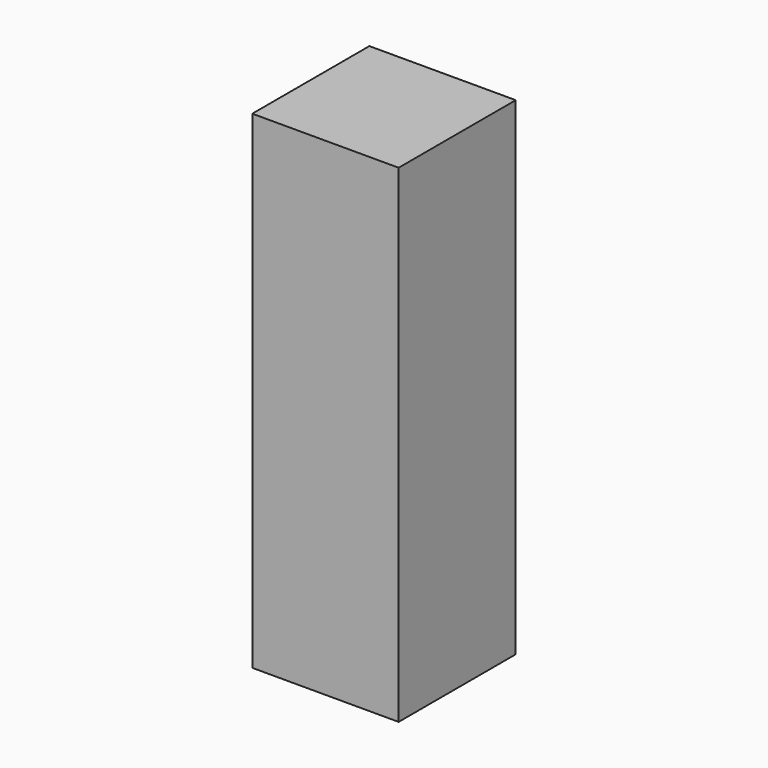
from build123d import *

# Parameters (mm, degrees)
BOX_W        = 100
BOX_H        = 200
BOX_DEPTH    = 300
BOX001_W     = 300
BOX001_H     = 300
BOX001_DEPTH = 1000


with BuildPart() as cube:
    # Box → Box (new body)
    with BuildSketch(Plane.XY):
        with Locations((50, 100)):
            Rectangle(BOX_W, BOX_H)
    extrude(amount=BOX_DEPTH)


with BuildPart() as cube2:
    # Box001 → Box001 (new body)
    with BuildSketch(Plane.XY):
        with Locations((150, 150)):
            Rectangle(BOX001_W, BOX001_H)
    extrude(amount=BOX001_DEPTH)


solid = Compound([cube.part, cube2.part])
